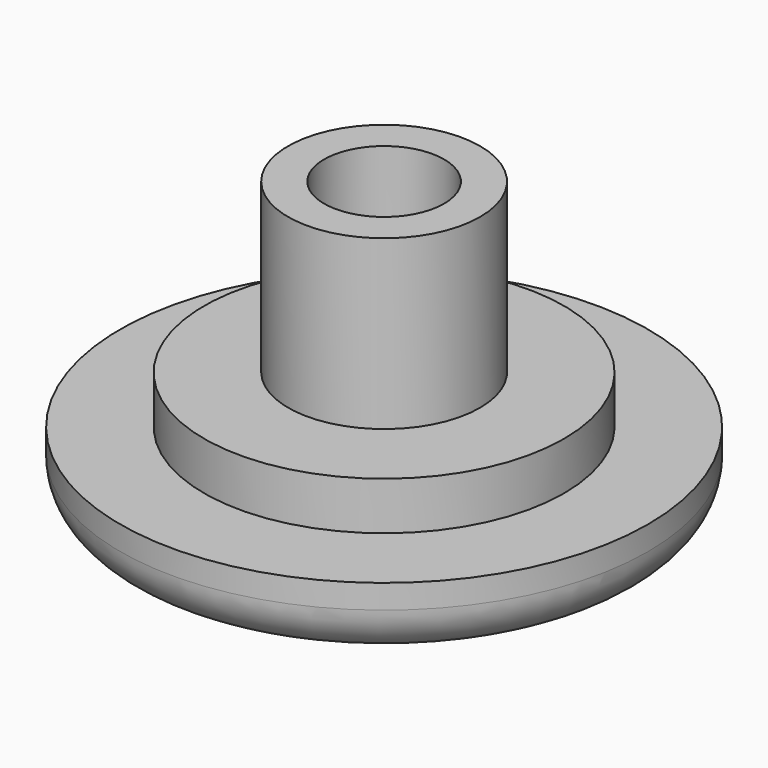
from build123d import *

# Parameters (mm, degrees)
F0_R     = 11
F1_DEPTH = 3
F2_R     = 2
F3_R     = 7.5
F4_DEPTH = 2
F5_R     = 4
F5_R_2   = 2.5
F6_DEPTH = 7


with BuildPart() as f1:
    # F0 (on Top) → F1 (new body)
    with BuildSketch(Plane.XY):
        Circle(F0_R)
    extrude(amount=F1_DEPTH)

    # F2
    f2_edges = [f1.edges().sort_by_distance(p)[0] for p in [
        (-11, 0, 0),
    ]]
    fillet(f2_edges, radius=F2_R)

    # F3 (on face) → F4 (join)
    with BuildSketch(Plane.XY.offset(3)):
        Circle(F3_R)
    extrude(amount=F4_DEPTH)

    # F5 (on face) → F6 (join)
    with BuildSketch(Plane.XY.offset(5)):
        Circle(F5_R)
        Circle(F5_R_2, mode=Mode.SUBTRACT)
    extrude(amount=F6_DEPTH)


solid = f1.part
